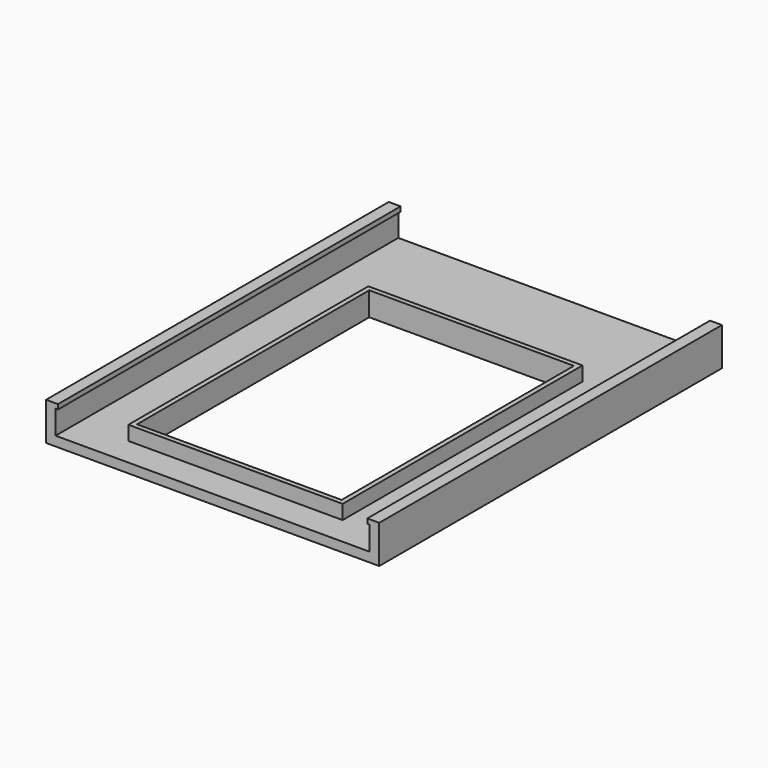
from build123d import *

# Parameters (mm, degrees)
SKETCH_W        = 70
SKETCH_H        = 90
PAD_DEPTH       = 2
SKETCH001_W     = 43
SKETCH001_H     = 61
POCKET_DEPTH    = 2
SKETCH002_W     = 45
SKETCH002_H     = 63
PAD001_DEPTH    = 3
SKETCH003_W     = 43
SKETCH003_H     = 61
POCKET001_DEPTH = 3
SKETCH004_W     = 2
SKETCH004_H     = 90
PAD002_DEPTH    = 6
SKETCH005_W     = 90
SKETCH005_H     = 1
PAD003_DEPTH    = 0.5
SKETCH006_W     = 90
SKETCH006_H     = 1
PAD004_DEPTH    = 0.5


with BuildPart() as part:
    # Sketch → Pad (new body)
    with BuildSketch(Plane.XY):
        with Locations((3.459163, -17.324317)):
            Rectangle(SKETCH_W, SKETCH_H)
    extrude(amount=PAD_DEPTH)

    # Sketch001 (on Face6 of Pad) → Pocket (cut)
    with BuildSketch(Plane.XY.offset(2)):
        with Locations((3.459163, -24.824317)):
            Rectangle(SKETCH001_W, SKETCH001_H)
    extrude(amount=-POCKET_DEPTH, mode=Mode.SUBTRACT)

    # Sketch002 (on Face5 of Pocket) → Pad001 (join)
    with BuildSketch(Plane.XY.offset(2)):
        with Locations((3.459163, -24.824317)):
            Rectangle(SKETCH002_W, SKETCH002_H)
    extrude(amount=PAD001_DEPTH)

    # Sketch003 (on Face16 of Pad001) → Pocket001 (cut)
    with BuildSketch(Plane.XY.offset(5)):
        with Locations((3.459163, -24.824317)):
            Rectangle(SKETCH003_W, SKETCH003_H)
    extrude(amount=-POCKET001_DEPTH, mode=Mode.SUBTRACT)

    # Sketch004 (on Face5 of Pocket001) → Pad002 (join)
    with BuildSketch(Plane.XY.offset(2)):
        with Locations((-30.540837, -17.324317)):
            Rectangle(SKETCH004_W, SKETCH004_H)
        with Locations((37.459163, -17.324317)):
            Rectangle(SKETCH004_W, SKETCH004_H)
    extrude(amount=PAD002_DEPTH)

    # Sketch005 (on Face17 of Pad002) → Pad003 (join)
    with BuildSketch(Plane(origin=(36.459163, 0, 0), x_dir=(0, -1, 0), z_dir=(-1, 0, 0))):
        with Locations((17.324317, 7.5)):
            Rectangle(SKETCH005_W, SKETCH005_H)
    extrude(amount=PAD003_DEPTH)

    # Sketch006 (on Face15 of Pad003) → Pad004 (join)
    with BuildSketch(Plane.YZ.offset(-29.540837)):
        with Locations((-17.324317, 7.5)):
            Rectangle(SKETCH006_W, SKETCH006_H)
    extrude(amount=PAD004_DEPTH)


solid = part.part
